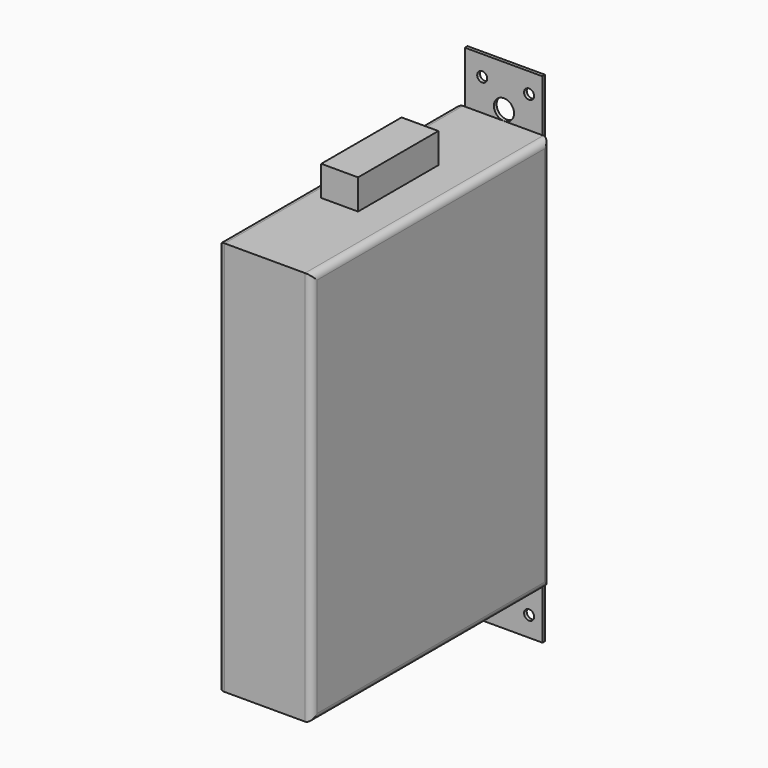
from build123d import *

# Parameters (mm, degrees)
CYLINDER030_R             = 1.5
CYLINDER030_DEPTH         = 10
CYLINDER031_R             = 1.5
CYLINDER031_DEPTH         = 10
CYLINDER032_R             = 1.5
CYLINDER032_DEPTH         = 10
CYLINDER029_R             = 1.5
CYLINDER029_DEPTH         = 10
CYLINDER028_R             = 3
CYLINDER028_DEPTH         = 10
CYLINDER027_R             = 3
CYLINDER027_DEPTH         = 10
BOX036_W                  = 30
BOX036_H                  = 9
BOX036_DEPTH              = 11
BOX037_W                  = 1
BOX037_H                  = 25.5
BOX037_DEPTH              = 23.2
BOX038_W                  = 1
BOX038_H                  = 25.5
BOX038_DEPTH              = 23.2
BOX002_W                  = 17
BOX002_H                  = 16.5
BOX002_DEPTH              = 13.25
BOX035_W                  = 17
BOX035_H                  = 65
BOX035_DEPTH              = 13.25
BOX034_W                  = 89
BOX034_H                  = 118
BOX034_DEPTH              = 28
FILLET022_R               = 2
FILLET022_ROLL_ANGLE      = -90
FILLET022_PLACEMENT_ANGLE = 90


with BuildPart() as cylinder030:
    # Cylinder030 → Cylinder030 (new body)
    with BuildSketch(Plane(origin=(85, -9.5, 20.25), x_dir=(0, 0, -1), z_dir=(1, 0, 0))):
        Circle(CYLINDER030_R)
    extrude(amount=CYLINDER030_DEPTH)


with BuildPart() as cylinder031:
    # Cylinder031 → Cylinder031 (new body)
    with BuildSketch(Plane(origin=(85, 127.5, 6.25), x_dir=(0, 0, -1), z_dir=(1, 0, 0))):
        Circle(CYLINDER031_R)
    extrude(amount=CYLINDER031_DEPTH)


with BuildPart() as cylinder032:
    # Cylinder032 → Cylinder032 (new body)
    with BuildSketch(Plane(origin=(85, 127.5, 20.25), x_dir=(0, 0, -1), z_dir=(1, 0, 0))):
        Circle(CYLINDER032_R)
    extrude(amount=CYLINDER032_DEPTH)


with BuildPart() as mount_small_cyl:
    # Cylinder029 → Cylinder029 (new body)
    with BuildSketch(Plane(origin=(85, -9.5, 6.25), x_dir=(0, 0, -1), z_dir=(1, 0, 0))):
        Circle(CYLINDER029_R)
    extrude(amount=CYLINDER029_DEPTH)

    # Fusion021: union Cylinder030, Cylinder031, Cylinder032
    add(cylinder030.part)
    add(cylinder031.part)
    add(cylinder032.part)


with BuildPart() as cylinder028:
    # Cylinder028 → Cylinder028 (new body)
    with BuildSketch(Plane(origin=(93, 121, 4.5), x_dir=(0, 0, 1), z_dir=(-1, 0, 0))):
        Circle(CYLINDER028_R)
    extrude(amount=CYLINDER028_DEPTH)


with BuildPart() as mount_cyl:
    # Cylinder027 → Cylinder027 (new body)
    with BuildSketch(Plane(origin=(93, -3, 4.5), x_dir=(0, 0, 1), z_dir=(-1, 0, 0))):
        Circle(CYLINDER027_R)
    extrude(amount=CYLINDER027_DEPTH)

    # Fusion020: union Cylinder028
    add(cylinder028.part)


with BuildPart() as mount_cyl_1:
    # Fusion020 placement: moved
    add(mount_cyl.part.moved(Location((0, 0, 9.25))))


with BuildPart() as power:
    # Box036 → Box036 (new body)
    with BuildSketch(Plane(origin=(32, -9, 11.75), x_dir=(1, 0, 0), z_dir=(0, 0, 1))):
        with Locations((15, 4.5)):
            Rectangle(BOX036_W, BOX036_H)
    extrude(amount=BOX036_DEPTH)


with BuildPart() as mount1:
    # Box037 → Box037 (new body)
    with BuildSketch(Plane(origin=(89, -15.5, 2.25), x_dir=(1, 0, 0), z_dir=(0, 0, 1))):
        with Locations((0.5, 12.75)):
            Rectangle(BOX037_W, BOX037_H)
    extrude(amount=BOX037_DEPTH)


with BuildPart() as mount2:
    # Box038 → Box038 (new body)
    with BuildSketch(Plane(origin=(89, 108, 2.25), x_dir=(1, 0, 0), z_dir=(0, 0, 1))):
        with Locations((0.5, 12.75)):
            Rectangle(BOX038_W, BOX038_H)
    extrude(amount=BOX038_DEPTH)


with BuildPart() as cube020:
    # Box002 → Box002 (new body)
    with BuildSketch(Plane(origin=(72, 88.5, 7), x_dir=(1, 0, 0), z_dir=(0, 0, 1))):
        with Locations((8.5, 8.25)):
            Rectangle(BOX002_W, BOX002_H)
    extrude(amount=BOX002_DEPTH)


with BuildPart() as cube019:
    # Box035 → Box035 (new body)
    with BuildSketch(Plane(origin=(72, 14.25, 7), x_dir=(1, 0, 0), z_dir=(0, 0, 1))):
        with Locations((8.5, 32.5)):
            Rectangle(BOX035_W, BOX035_H)
    extrude(amount=BOX035_DEPTH)


with BuildPart() as switch:
    # Box034 → Box034 (new body)
    with BuildSketch(Plane.XY):
        with Locations((44.5, 59)):
            Rectangle(BOX034_W, BOX034_H)
    extrude(amount=BOX034_DEPTH)

    # Cut023: cut Cube019
    add(cube019.part, mode=Mode.SUBTRACT)

    # Cut024: cut Cube020
    add(cube020.part, mode=Mode.SUBTRACT)

    # Fusion019: union Power, mount1, mount2
    add(power.part)
    add(mount1.part)
    add(mount2.part)

    # Cut025: cut mount_cyl
    add(mount_cyl_1.part, mode=Mode.SUBTRACT)

    # Cut026: cut mount_small_cyl
    add(mount_small_cyl.part, mode=Mode.SUBTRACT)

    # Fillet022
    fillet022_edges = [switch.edges().sort_by_distance(p)[0] for p in [
        (44.5, 0, 0),
        (44.5, 0, 28),
        (0, 59, 0),
        (44.5, 118, 0),
        (89, 59, 0),
        (89, 59, 28),
        (0, 59, 28),
    ]]
    fillet(fillet022_edges, radius=FILLET022_R)


with BuildPart() as switch_1:
    # Fillet022 roll: moved
    add(switch.part.rotate(Axis((0, 0, 0), (1, 0, 0)), FILLET022_ROLL_ANGLE))


with BuildPart() as switch_2:
    # Fillet022 placement: moved
    add(switch_1.part.moved(Location((-144.75, 67.25, 81))).rotate(Axis((-144.75, 67.25, 81), (0, 0, 1)), FILLET022_PLACEMENT_ANGLE))


solid = switch_2.part
